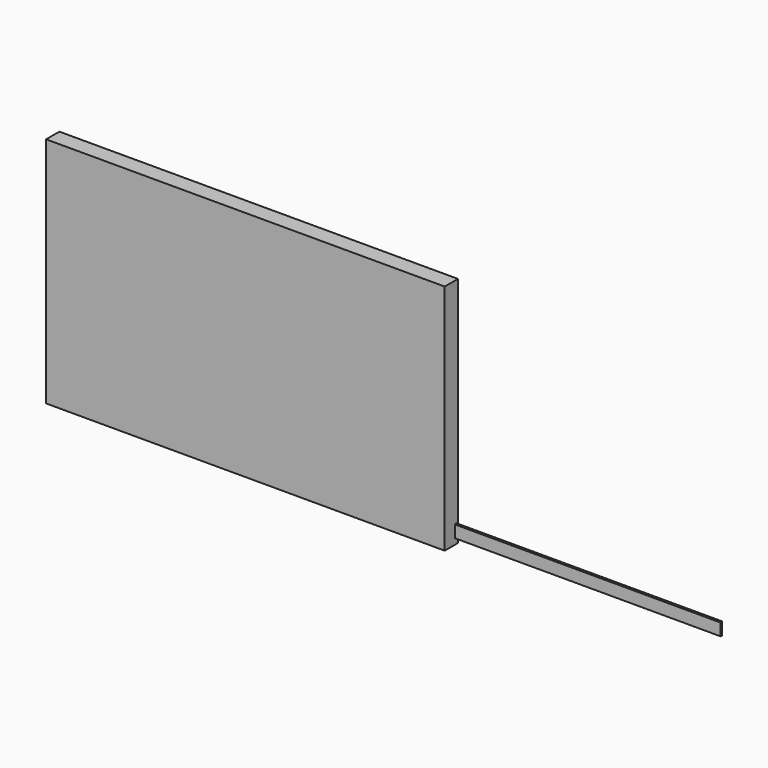
from build123d import *

# Parameters (mm, degrees)
F0_W     = 2435.352
F0_H     = 111.125
F1_DEPTH = 12.7
F2_DEPTH = 6.35
F0_W_2   = 791.4916503787
F0_H_2   = 117.475
F3_DEPTH = 152.4


with BuildPart() as f1:
    # F0 (on Front) → F1 (new body)
    with BuildSketch(Plane.XZ):
        with Locations((1379.7529487133, 146.1342022836)):
            Rectangle(F0_W, F0_H)
    extrude(amount=F1_DEPTH)

    # F0 (on Front) → F2 (join)
    with BuildSketch(Plane.XZ):
        Polygon((160.5529487133, 201.6967022836), (160.5529487133, 90.5717022836), (162.0769487133, 90.5717022836), (162.0769487133, 201.6967022836), (2597.4289487133, 201.6967022836), (2597.4289487133, 90.5717022836), (2598.9529487133, 90.5717022836), (2598.9529487133, 201.6967022836), (2598.9529487133, 208.0467022836), (423.7732585907, 208.0467022836), (162.0769487133, 208.0467022836), (160.5529487133, 208.0467022836), align=None)
    extrude(amount=F2_DEPTH)


with BuildPart() as f3:
    # F0 (on Front) → F3 (new body)
    with BuildSketch(Plane.XZ):
        Polygon((55.4681941867, 2084.4717022836), (-3602.1318058133, 2084.4717022836), (-3602.1318058133, 90.5717022836), (-736.023456192, 90.5717022836), (-736.023456192, 208.0467022836), (-2014.6267414093, 208.0467022836), (-2014.6267414093, 325.5217022836), (-2481.4939498901, 325.5217022836), (-2481.4939498901, 442.9967022836), (-3233.325958252, 442.9967022836), (-3233.325958252, 560.4717022836), (-1497.863650322, 560.4717022836), (-1497.863650322, 677.9467022836), (55.4681941867, 677.9467022836), align=None)
        Polygon((55.4681941867, 560.4717022836), (55.4681941867, 677.9467022836), (-1497.863650322, 677.9467022836), (-1497.863650322, 560.4717022836), (-794.925958252, 560.4717022836), align=None)
        Polygon((55.4681941867, 325.5217022836), (55.4681941867, 560.4717022836), (-794.925958252, 560.4717022836), (-794.925958252, 442.9967022836), (-43.0939498901, 442.9967022836), (-43.0939498901, 325.5217022836), align=None)
        Polygon((-794.925958252, 442.9967022836), (-794.925958252, 560.4717022836), (-1497.863650322, 560.4717022836), (-3233.325958252, 560.4717022836), (-3233.325958252, 442.9967022836), (-2481.4939498901, 442.9967022836), align=None)
        Polygon((-2014.6267414093, 325.5217022836), (-43.0939498901, 325.5217022836), (-43.0939498901, 442.9967022836), (-794.925958252, 442.9967022836), (-2481.4939498901, 442.9967022836), (-2481.4939498901, 325.5217022836), align=None)
        Polygon((-2014.6267414093, 208.0467022836), (-736.023456192, 208.0467022836), (55.4681941867, 208.0467022836), (55.4681941867, 325.5217022836), (-43.0939498901, 325.5217022836), (-2014.6267414093, 325.5217022836), align=None)
        with Locations((-340.2776310027, 149.3092022836)):
            Rectangle(F0_W_2, F0_H_2)
        Polygon((-736.023456192, 90.5717022836), (-3602.1318058133, 90.5717022836), (-3602.1318058133, -49.1282977164), (55.4681941867, -49.1282977164), (55.4681941867, 90.5717022836), align=None)
    extrude(amount=-F3_DEPTH)


solid = Compound([f1.part, f3.part])
